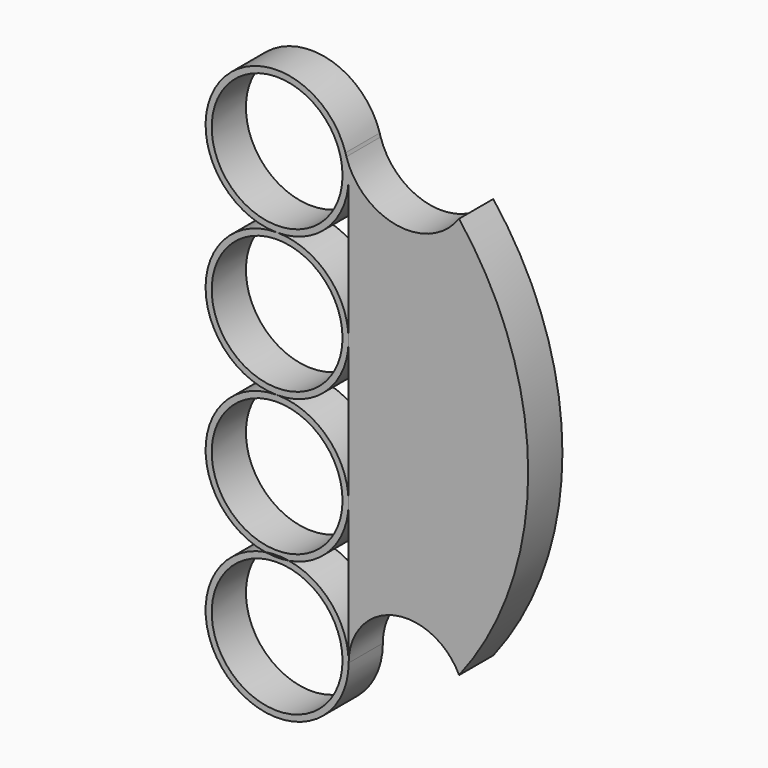
from build123d import *

# Parameters (mm, degrees)
F0_R     = 10.7
F1_DEPTH = 7


with BuildPart() as f1:
    # F0 (on Front) → F1 (new body)
    with BuildSketch(Plane.XZ):
        with BuildLine():
            ThreePointArc((-0.0819729994, 11.6997128353), (0, 11.7), (0.0819729994, 11.6997128353))
            ThreePointArc((0.0819729994, 11.6997128353), (8.3020805854, 15.1553091045), (11.7, 23.3994256705))
            ThreePointArc((11.7, 23.3994256705), (11.6083373103, 24.8611044625), (11.3347854887, 26.2998804495))
            ThreePointArc((11.3347854887, 26.2998804495), (11.2574671046, 26.5618552508), (11.1870535149, 26.8257697359))
            ThreePointArc((11.1870535149, 26.8257697359), (-9.3824358593, 30.3894111745), (-0.0819729994, 11.6997128353))
        make_face()
        with Locations((0, 23.3994256705)):
            Circle(F0_R, mode=Mode.SUBTRACT)
        with BuildLine():
            Line((11.7, 23.3994256705), (11.7, 0))
            Line((11.7, 0), (11.7, -23.3994256705))
            Line((11.7, -23.3994256705), (11.7, -46.4759171009))
            ThreePointArc((11.7, -46.4759171009), (19.0913360222, -37.2102467747), (29.7679230211, -42.3575747068))
            ThreePointArc((29.7679230211, -42.3575747068), (41.0708012444, -9.4969864297), (29.7604638503, 23.3610352102))
            ThreePointArc((29.7604638503, 23.3610352102), (19.634015707, 19.1024036043), (11.3347854887, 26.2998804495))
            ThreePointArc((11.3347854887, 26.2998804495), (11.6083373103, 24.8611044625), (11.7, 23.3994256705))
        make_face()
    extrude(amount=F1_DEPTH)


with BuildPart() as f1b:
    # F0 (on Front) → F1, piece 2 (new body)
    with BuildSketch(Plane.XZ):
        with BuildLine():
            ThreePointArc((0.0819729994, -11.6997128353), (8.3020805854, -8.244116566), (11.7, 0))
            ThreePointArc((11.7, 0), (8.3020805854, 8.244116566), (0.0819729994, 11.6997128353))
            ThreePointArc((0.0819729994, 11.6997128353), (0, 11.6994256705), (-0.0819729994, 11.6997128353))
            ThreePointArc((-0.0819729994, 11.6997128353), (-11.7, 0), (-0.0819729994, -11.6997128353))
            ThreePointArc((-0.0819729994, -11.6997128353), (0, -11.6994256705), (0.0819729994, -11.6997128353))
        make_face()
        Circle(F0_R, mode=Mode.SUBTRACT)
    extrude(amount=F1_DEPTH)


with BuildPart() as f1c:
    # F0 (on Front) → F1, piece 3 (new body)
    with BuildSketch(Plane.XZ):
        with BuildLine():
            ThreePointArc((11.7, -23.3994256705), (8.3020805854, -15.1553091045), (0.0819729994, -11.6997128353))
            ThreePointArc((0.0819729994, -11.6997128353), (0, -11.7), (-0.0819729994, -11.6997128353))
            ThreePointArc((-0.0819729994, -11.6997128353), (-11.6628274762, -22.467516201), (-1.9387846233, -34.9376713857))
            ThreePointArc((-1.9387846233, -34.9376713857), (0, -34.7759171009), (1.9387846233, -34.9376713857))
            ThreePointArc((1.9387846233, -34.9376713857), (8.932350757, -30.9560856439), (11.7, -23.3994256705))
        make_face()
        with Locations((0, -23.3994256705)):
            Circle(F0_R, mode=Mode.SUBTRACT)
    extrude(amount=F1_DEPTH)


with BuildPart() as f1d:
    # F0 (on Front) → F1, piece 4 (new body)
    with BuildSketch(Plane.XZ):
        with BuildLine():
            ThreePointArc((11.7, -46.4759171009), (8.932350757, -38.9192571275), (1.9387846233, -34.9376713857))
            ThreePointArc((1.9387846233, -34.9376713857), (0, -35.0994256705), (-1.9387846233, -34.9376713857))
            ThreePointArc((-1.9387846233, -34.9376713857), (-7.5566599734, -55.4082678579), (11.7, -46.4759171009))
        make_face()
        with Locations((0, -46.4759171009)):
            Circle(F0_R, mode=Mode.SUBTRACT)
    extrude(amount=F1_DEPTH)


solid = Compound([f1.part, f1b.part, f1c.part, f1d.part])
